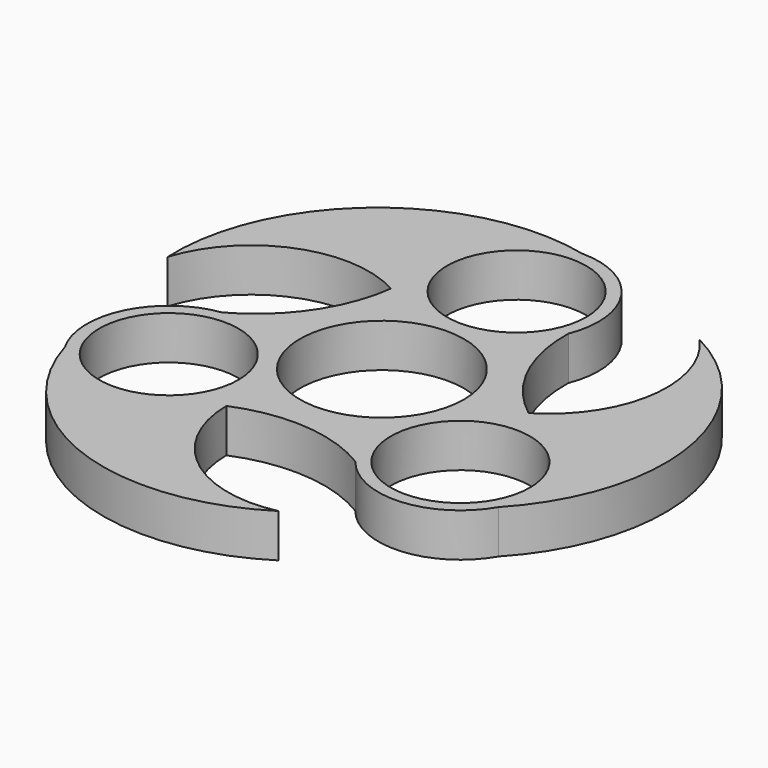
from build123d import *

# Parameters (mm, degrees)
F0_R     = 11.2
F0_R_2   = 13.2
F1_DEPTH = 7


with BuildPart() as f1:
    # F0 (on Top) → F1 (new body)
    with BuildSketch(Plane.XY):
        with BuildLine():
            ThreePointArc((21.859796, 2.191562), (14.647279, 11.035914), (12.254917, 22.194749))
            ThreePointArc((12.254917, 22.194749), (10.931223, 34.498756), (0, 40.299542))
            ThreePointArc((0, 40.299542), (-10.375988, 35.25913), (-12.827846, 23.987249))
            ThreePointArc((-12.827846, 23.987249), (-12.632849, 20.911303), (-12.827846, 17.835357))
            ThreePointArc((-12.827846, 17.835357), (-16.881022, 7.166958), (-25.348675, -0.484305))
            ThreePointArc((-25.348675, -0.484305), (-35.342411, -7.782661), (-34.900427, -20.149771))
            ThreePointArc((-34.900427, -20.149771), (-25.347308, -26.615434), (-14.359644, -23.102865))
            ThreePointArc((-14.359644, -23.102865), (-11.793295, -21.39602), (-9.03195, -20.026919))
            ThreePointArc((-9.03195, -20.026919), (2.233743, -18.202873), (13.093758, -21.710444))
            ThreePointArc((13.093758, -21.710444), (24.411188, -26.716095), (34.900427, -20.149771))
            ThreePointArc((34.900427, -20.149771), (35.723296, -8.643695), (27.18749, -0.884384))
            ThreePointArc((27.18749, -0.884384), (24.426145, 0.484717), (21.859796, 2.191562))
        make_face()
        with Locations((-23.468892, -13.549771)):
            Circle(F0_R, mode=Mode.SUBTRACT)
        with Locations((23.468892, -13.549771)):
            Circle(F0_R, mode=Mode.SUBTRACT)
        Circle(F0_R_2, mode=Mode.SUBTRACT)
        with Locations((0, 27.099542)):
            Circle(F0_R, mode=Mode.SUBTRACT)
        with BuildLine():
            ThreePointArc((-12.827846, 23.987249), (-10.375988, 35.25913), (0, 40.299542))
            ThreePointArc((0, 40.299542), (-28.341803, 33.676362), (-40.126432, 7.063454))
            ThreePointArc((-40.126432, 7.063454), (-29.025745, 18.908185), (-12.827846, 17.835357))
            ThreePointArc((-12.827846, 17.835357), (-12.632849, 20.911303), (-12.827846, 23.987249))
        make_face()
        with BuildLine():
            ThreePointArc((26.180347, 31.218782), (30.887841, 15.68294), (21.859796, 2.191562))
            ThreePointArc((21.859796, 2.191562), (24.426145, 0.484717), (27.18749, -0.884384))
            ThreePointArc((27.18749, -0.884384), (35.723296, -8.643695), (34.900427, -20.149771))
            ThreePointArc((34.900427, -20.149771), (43.335487, 7.706541), (26.180347, 31.218782))
        make_face()
        with BuildLine():
            ThreePointArc((-14.359644, -23.102865), (-25.347308, -26.615434), (-34.900427, -20.149771))
            ThreePointArc((-34.900427, -20.149771), (-14.993684, -41.382903), (13.946085, -38.282236))
            ThreePointArc((13.946085, -38.282236), (-1.862096, -34.591125), (-9.03195, -20.026919))
            ThreePointArc((-9.03195, -20.026919), (-11.793295, -21.39602), (-14.359644, -23.102865))
        make_face()
    extrude(amount=F1_DEPTH)


solid = f1.part
